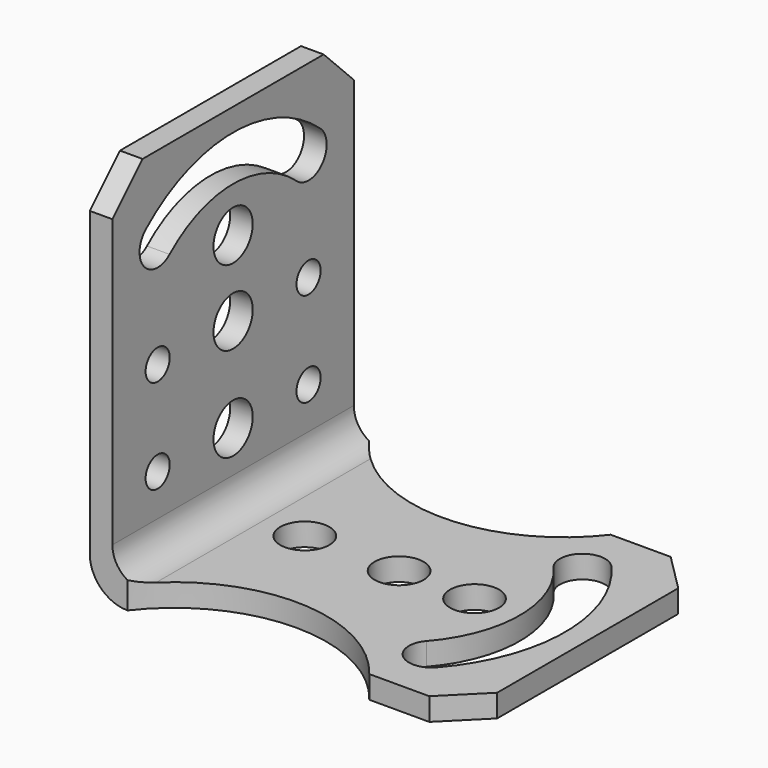
from build123d import *

# Parameters (mm, degrees)
F1_DEPTH  = 40
F2_R      = 3.25
F3_DEPTH  = 25
F4_R      = 3.25
F4_R_2    = 2
F5_DEPTH  = 25
F6_SIZE   = 5
F7_SIZE   = 5
F8_DEPTH  = 25
F9_W      = 50.789644
F9_H      = 57.590966
F10_DEPTH = 51.1
F11_SIZE  = 5
F12_SIZE  = 5
F13_R     = 4
F14_R     = 5


with BuildPart() as f1:
    # F0 (on Front) → F1 (new body)
    with BuildSketch(Plane.XZ):
        Polygon((0, 50), (0, 0), (50, 0), (50, 5), (5, 5), (5, 50), align=None)
    extrude(amount=F1_DEPTH)

    # F2 (on face) → F3 (cut)
    with BuildSketch(Plane(origin=(0, 0, 0), x_dir=(1, 0, 0), z_dir=(0, 0, -1))):
        with Locations((25, 20)):
            Circle(F2_R)
        with BuildLine():
            ThreePointArc((37.049758, 30.526316), (41, 20), (37.049758, 9.473684))
            ThreePointArc((37.049758, 9.473684), (37.335405, 5.240671), (41.568419, 5.526317))
            ThreePointArc((41.568419, 5.526317), (47, 20.000001), (41.568418, 34.473684))
            ThreePointArc((41.568418, 34.473684), (37.335404, 34.75933), (37.049758, 30.526316))
        make_face()
        with Locations((12.5, 20)):
            Circle(F2_R)
        with Locations((35, 20)):
            Circle(F2_R)
        with BuildLine():
            Line((26.554622, -9.521332), (37.049758, 0))
            ThreePointArc((37.049758, 0), (21.024879, 7.89477), (5, 0))
            Line((5, 0), (26.554622, -9.521332))
        make_face()
        with BuildLine():
            Line((21.024879, 52.316344), (5, 40))
            ThreePointArc((5, 40), (21.024879, 32.105231), (37.049758, 40))
            Line((37.049758, 40), (21.024879, 52.316344))
        make_face()
    extrude(amount=-F3_DEPTH, mode=Mode.SUBTRACT)

    # F4 (on face) → F5 (cut)
    with BuildSketch(Plane(origin=(0, 0, 0), x_dir=(0, -1, 0), z_dir=(-1, 0, 0))):
        with Locations((20, 12.5)):
            Circle(F4_R)
        with Locations((20, 25)):
            Circle(F4_R)
        with Locations((20, 35)):
            Circle(F4_R)
        with BuildLine():
            ThreePointArc((9.473684, 37.049758), (20, 41), (30.526316, 37.049758))
            ThreePointArc((30.526316, 37.049758), (34.75933, 37.335404), (34.473684, 41.568418))
            ThreePointArc((34.473684, 41.568418), (20, 47), (5.526316, 41.568418))
            ThreePointArc((5.526316, 41.568418), (5.24067, 37.335404), (9.473684, 37.049758))
        make_face()
        with Locations((32.5, 12.5)):
            Circle(F4_R_2)
        with Locations((32.5, 25)):
            Circle(F4_R_2)
        with Locations((7.5, 25)):
            Circle(F4_R_2)
        with Locations((7.5, 12.5)):
            Circle(F4_R_2)
    extrude(amount=-F5_DEPTH, mode=Mode.SUBTRACT)

    # F6
    f6_edges = [f1.edges().sort_by_distance(p)[0] for p in [
        (50, -40, 2.5),
    ]]
    chamfer(f6_edges, length=F6_SIZE)

    # F7
    f7_edges = [f1.edges().sort_by_distance(p)[0] for p in [
        (50, 0, 2.5),
    ]]
    chamfer(f7_edges, length=F7_SIZE)

    # F2 (on face) → F8 (cut)
    with BuildSketch(Plane(origin=(0, 0, 0), x_dir=(1, 0, 0), z_dir=(0, 0, -1))):
        with Locations((25, 20)):
            Circle(F2_R)
        with BuildLine():
            ThreePointArc((37.049758, 30.526316), (41, 20), (37.049758, 9.473684))
            ThreePointArc((37.049758, 9.473684), (37.335405, 5.240671), (41.568419, 5.526317))
            ThreePointArc((41.568419, 5.526317), (47, 20.000001), (41.568418, 34.473684))
            ThreePointArc((41.568418, 34.473684), (37.335404, 34.75933), (37.049758, 30.526316))
        make_face()
        with Locations((12.5, 20)):
            Circle(F2_R)
        with Locations((35, 20)):
            Circle(F2_R)
        with BuildLine():
            Line((26.554622, -9.521332), (37.049758, 0))
            ThreePointArc((37.049758, 0), (21.024879, 7.89477), (5, 0))
            Line((5, 0), (26.554622, -9.521332))
        make_face()
        with BuildLine():
            Line((21.024879, 52.316344), (5, 40))
            ThreePointArc((5, 40), (21.024879, 32.105231), (37.049758, 40))
            Line((37.049758, 40), (21.024879, 52.316344))
        make_face()
    extrude(amount=F8_DEPTH, mode=Mode.SUBTRACT)

    # F9 (on face) → F10 (cut)
    with BuildSketch(Plane.XZ.offset(40)):
        with Locations((28.394822, 31.795483)):
            Rectangle(F9_W, F9_H)
    extrude(amount=-F10_DEPTH, mode=Mode.SUBTRACT)

    # F11
    f11_edges = [f1.edges().sort_by_distance(p)[0] for p in [
        (1.5, 0, 50),
    ]]
    chamfer(f11_edges, length=F11_SIZE)

    # F12
    f12_edges = [f1.edges().sort_by_distance(p)[0] for p in [
        (1.5, -40, 50),
    ]]
    chamfer(f12_edges, length=F12_SIZE)

    # F13
    f13_edges = [f1.edges().sort_by_distance(p)[0] for p in [
        (3, -20, 3),
    ]]
    fillet(f13_edges, radius=F13_R)

    # F14
    f14_edges = [f1.edges().sort_by_distance(p)[0] for p in [
        (0, -20, 0),
    ]]
    fillet(f14_edges, radius=F14_R)


solid = f1.part
